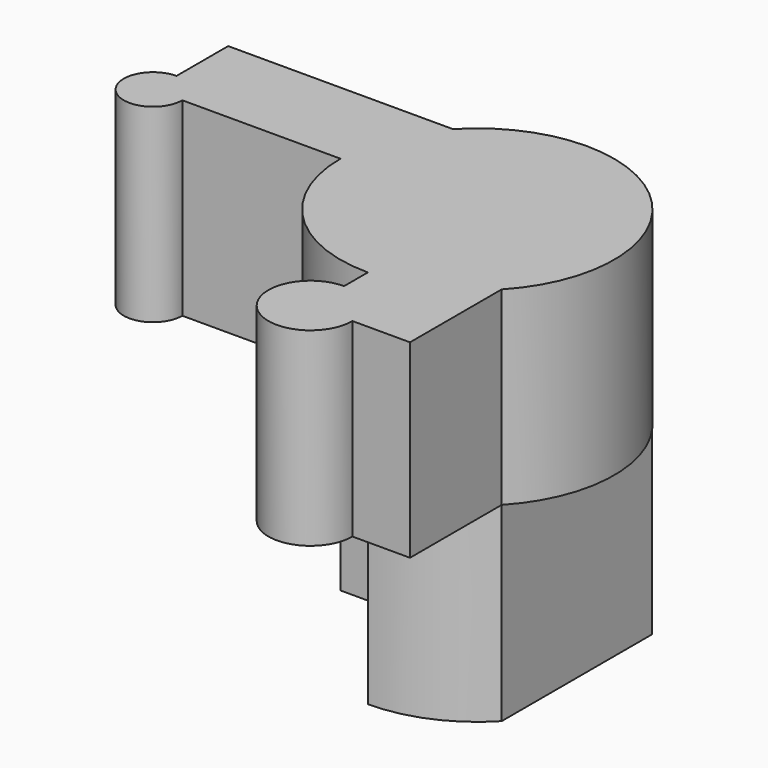
from build123d import *

# Parameters (mm, degrees)
F1_DEPTH = 62.86174
F2_DEPTH = 63.09395
F3_R     = 12.7
F4_DEPTH = 54.77137


with BuildPart() as f1:
    # F0 (on Top) → F1 (new body)
    with BuildSketch(Plane.XY):
        with BuildLine():
            ThreePointArc((-140.4295861721, 78.7991555305), (-147.2866867811, 62.2446502417), (-130.7321814923, 69.1017508507))
            Line((-130.7321814923, 69.1017508507), (-140.4295861721, 69.1017508507))
            Line((-140.4295861721, 69.1017508507), (-140.4295861721, 78.7991555305))
        make_face()
        with BuildLine():
            ThreePointArc((-32.9791270196, 13.9191422166), (-42.8214468693, -9.8423198497), (-19.059984803, 0))
            Line((-19.059984803, 0), (-32.9791270196, 0))
            Line((-32.9791270196, 0), (-32.9791270196, 13.9191422166))
        make_face()
        with BuildLine():
            ThreePointArc((-78.3255656545, 69.1017508507), (-65.043901281, 37.0369765893), (-32.9791270196, 23.7553122159))
            Line((-32.9791270196, 23.7553122159), (-32.9791270196, 69.1017508507))
            Line((-32.9791270196, 69.1017508507), (-78.3255656545, 69.1017508507))
        make_face()
        with BuildLine():
            Line((0, 100.2253219485), (0, 37.9781797528))
            ThreePointArc((0, 37.9781797528), (9.1622152495, 52.3564001939), (12.3673116152, 69.1017508507))
            ThreePointArc((12.3673116152, 69.1017508507), (9.1622152495, 85.8471015074), (0, 100.2253219485))
        make_face()
        with BuildLine():
            Line((-19.059984803, 0), (0, 0))
            Line((0, 0), (0, 37.9781797528))
            ThreePointArc((0, 37.9781797528), (-15.0214491356, 27.4625709611), (-32.9791270196, 23.7553122159))
            Line((-32.9791270196, 23.7553122159), (-32.9791270196, 13.9191422166))
            ThreePointArc((-32.9791270196, 13.9191422166), (-23.13680717, 9.8423198497), (-19.059984803, 0))
        make_face()
        with BuildLine():
            Line((-32.9791270196, 0), (-19.059984803, 0))
            ThreePointArc((-19.059984803, 0), (-23.13680717, 9.8423198497), (-32.9791270196, 13.9191422166))
            Line((-32.9791270196, 13.9191422166), (-32.9791270196, 0))
        make_face()
        with BuildLine():
            ThreePointArc((-78.3255656545, 69.1017508507), (-75.1204692888, 85.8471015074), (-65.9582540393, 100.2253219485))
            Line((-65.9582540393, 100.2253219485), (-140.4295861721, 100.2253219485))
            Line((-140.4295861721, 100.2253219485), (-140.4295861721, 78.7991555305))
            ThreePointArc((-140.4295861721, 78.7991555305), (-133.5724855631, 75.9588514597), (-130.7321814923, 69.1017508507))
            Line((-130.7321814923, 69.1017508507), (-78.3255656545, 69.1017508507))
        make_face()
        with BuildLine():
            Line((-140.4295861721, 69.1017508507), (-130.7321814923, 69.1017508507))
            ThreePointArc((-130.7321814923, 69.1017508507), (-133.5724855631, 75.9588514597), (-140.4295861721, 78.7991555305))
            Line((-140.4295861721, 78.7991555305), (-140.4295861721, 69.1017508507))
        make_face()
        with BuildLine():
            ThreePointArc((-32.9791270196, 23.7553122159), (-15.0214491356, 27.4625709611), (0, 37.9781797528))
            Line((0, 37.9781797528), (0, 100.2253219485))
            Line((0, 100.2253219485), (-65.9582540393, 100.2253219485))
            ThreePointArc((-65.9582540393, 100.2253219485), (-75.1204692888, 85.8471015074), (-78.3255656545, 69.1017508507))
            Line((-78.3255656545, 69.1017508507), (-32.9791270196, 69.1017508507))
            Line((-32.9791270196, 69.1017508507), (-32.9791270196, 23.7553122159))
        make_face()
        with BuildLine():
            Line((-65.9582540393, 100.2253219485), (0, 100.2253219485))
            ThreePointArc((0, 100.2253219485), (-32.9791270196, 114.4481894855), (-65.9582540393, 100.2253219485))
        make_face()
    extrude(amount=F1_DEPTH)


with BuildPart() as f2:
    # F0 (on Top) → F2 (new body)
    with BuildSketch(Plane.XY):
        with BuildLine():
            ThreePointArc((-32.9791270196, 23.7553122159), (-15.0214491356, 27.4625709611), (0, 37.9781797528))
            Line((0, 37.9781797528), (0, 100.2253219485))
            Line((0, 100.2253219485), (-65.9582540393, 100.2253219485))
            ThreePointArc((-65.9582540393, 100.2253219485), (-75.1204692888, 85.8471015074), (-78.3255656545, 69.1017508507))
            Line((-78.3255656545, 69.1017508507), (-32.9791270196, 69.1017508507))
            Line((-32.9791270196, 69.1017508507), (-32.9791270196, 23.7553122159))
        make_face()
    extrude(amount=-F2_DEPTH)

    # F3 (on face) → F4 (cut)
    with BuildSketch(Plane.XZ.offset(-69.1017508507)):
        with Locations((-53.148225101, -29.0395207848)):
            Circle(F3_R)
    extrude(amount=-F4_DEPTH, mode=Mode.SUBTRACT)


solid = Compound([f1.part, f2.part])
